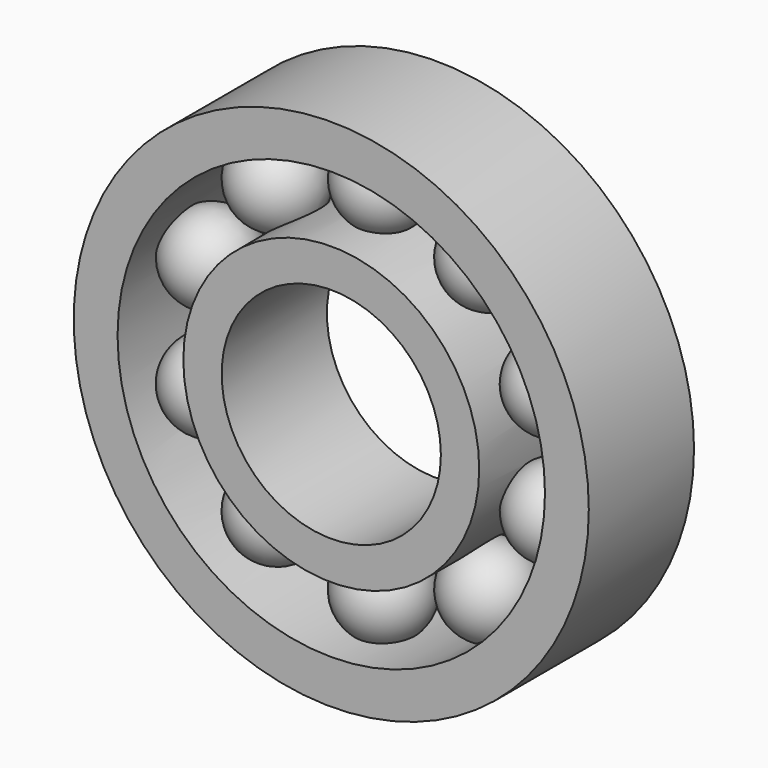
from build123d import *

# Parameters (mm, degrees)
F0_R     = 13.5
F0_R_2   = 10
F1_DEPTH = 12
F2_R     = 23.5
F2_R_2   = 19.5
F3_DEPTH = 12
F8_COUNT = 10


with BuildPart() as f1:
    # F0 (on Front) → F1 (new body)
    with BuildSketch(Plane.XZ):
        Circle(F0_R)
        Circle(F0_R_2, mode=Mode.SUBTRACT)
    extrude(amount=F1_DEPTH)



with BuildPart() as f3:
    # F2 (on Front) → F3 (new body)
    with BuildSketch(Plane.XZ):
        Circle(F2_R)
        Circle(F2_R_2, mode=Mode.SUBTRACT)
    extrude(amount=F3_DEPTH)


with BuildPart() as f1_1:
    add(f1.part)

    add(f3.part)  # F6 merges F3
    # F5 (on offset) → F6 (revolve)
    with BuildSketch(Plane.XZ.offset(6)):
        with BuildLine():
            Line((0, 20.5), (0, 12.5))
            ThreePointArc((0, 12.5), (4, 16.5), (0, 20.5))
        make_face()
    revolve(axis=Axis((0, -6, 16.5), (0, 0, -1)))

    # F8: F1 ×10 about axis
    f8_axis = Axis((0, -70.2480524778, 0), (0, -1, 0))


with BuildPart() as f1_2:
    add(f1_1.part)
    for i in range(1, F8_COUNT):
        add(f1_1.part.rotate(f8_axis, i * 360 / F8_COUNT))


solid = f1_2.part
